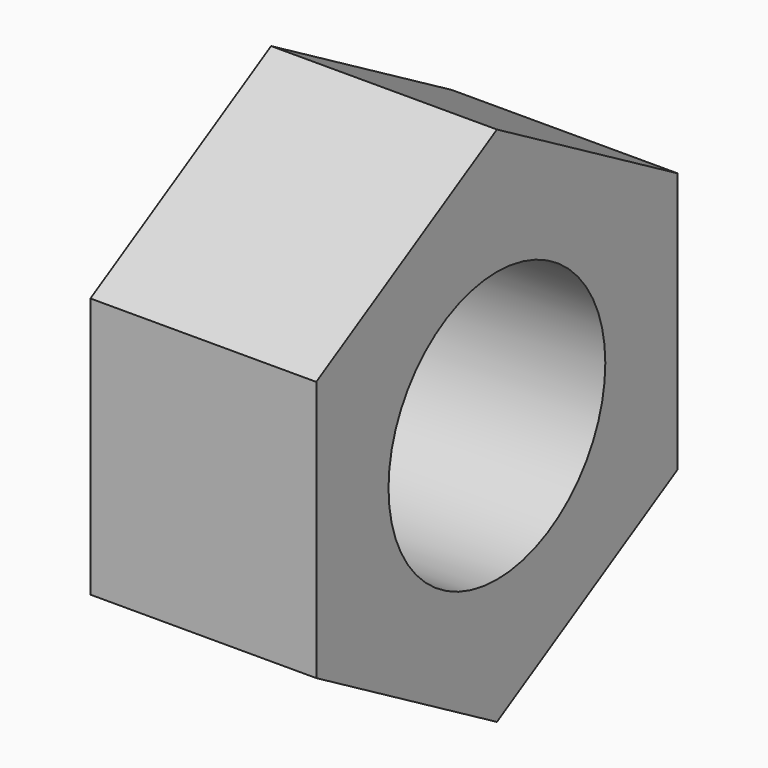
from build123d import *

# Parameters (mm, degrees)
F1_DEPTH = 5
F2_R     = 3
F3_DEPTH = 25


with BuildPart() as f1:
    # F0 (on Right) → F1 (new body)
    with BuildSketch(Plane.YZ):
        Polygon((0, -5.773503), (5, -2.886751), (5, 2.886751), (0, 5.773503), (-5, 2.886751), (-5, -2.886751), align=None)
    extrude(amount=F1_DEPTH)

    # F2 (on face) → F3 (cut)
    with BuildSketch(Plane.YZ.offset(5)):
        Circle(F2_R)
    extrude(amount=-F3_DEPTH, mode=Mode.SUBTRACT)


solid = f1.part
